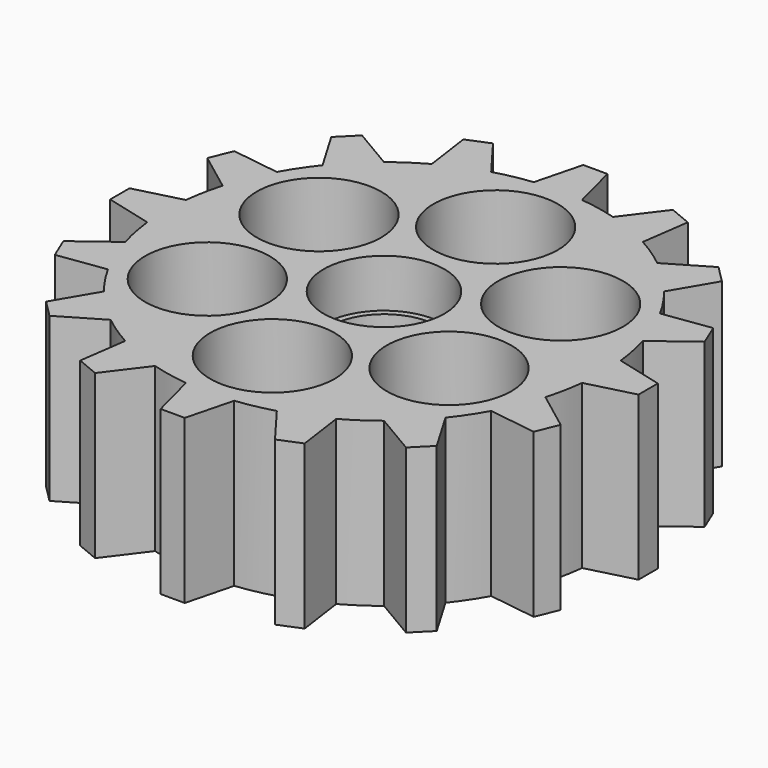
from build123d import *

# Parameters (mm, degrees)
F0_R     = 5
F1_DEPTH = 6.75
F0_R_2   = 4.5
F2_DEPTH = 2.75
F3_R     = 5.154476
F4_DEPTH = 13.501


with BuildPart() as f1:
    # F0 (on Top) → F1 (new body, symmetric)
    with BuildSketch(Plane.XY):
        with BuildLine():
            Line((-21.880162, -1), (-18.007179, -2))
            ThreePointArc((-18.007179, -2), (-17.769775, -3.534628), (-17.401831, -5.04329))
            Line((-17.401831, -5.04329), (-20.597318, -7.449296))
            Line((-20.597318, -7.449296), (-19.831951, -9.297055))
            Line((-19.831951, -9.297055), (-15.871097, -8.738808))
            ThreePointArc((-15.871097, -8.738808), (-15.064488, -10.065769), (-14.147212, -11.318785))
            Line((-14.147212, -11.318785), (-16.178718, -14.764504))
            Line((-16.178718, -14.764504), (-14.764504, -16.178718))
            Line((-14.764504, -16.178718), (-11.318785, -14.147212))
            ThreePointArc((-11.318785, -14.147212), (-10.065769, -15.064488), (-8.738808, -15.871097))
            Line((-8.738808, -15.871097), (-9.297055, -19.831951))
            Line((-9.297055, -19.831951), (-7.449296, -20.597318))
            Line((-7.449296, -20.597318), (-5.04329, -17.401831))
            ThreePointArc((-5.04329, -17.401831), (-3.534628, -17.769775), (-2, -18.007179))
            Line((-2, -18.007179), (-1, -21.880162))
            Line((-1, -21.880162), (1, -21.880162))
            Line((1, -21.880162), (2, -18.007179))
            ThreePointArc((2, -18.007179), (3.534628, -17.769775), (5.04329, -17.401831))
            Line((5.04329, -17.401831), (7.449296, -20.597318))
            Line((7.449296, -20.597318), (9.297055, -19.831951))
            Line((9.297055, -19.831951), (8.738808, -15.871097))
            ThreePointArc((8.738808, -15.871097), (10.065769, -15.064488), (11.318785, -14.147212))
            Line((11.318785, -14.147212), (14.764504, -16.178718))
            Line((14.764504, -16.178718), (16.178718, -14.764504))
            Line((16.178718, -14.764504), (14.147212, -11.318785))
            ThreePointArc((14.147212, -11.318785), (15.064488, -10.065769), (15.871097, -8.738808))
            Line((15.871097, -8.738808), (19.831951, -9.297055))
            Line((19.831951, -9.297055), (20.597318, -7.449296))
            Line((20.597318, -7.449296), (17.401831, -5.04329))
            ThreePointArc((17.401831, -5.04329), (17.769775, -3.534628), (18.007179, -2))
            Line((18.007179, -2), (21.880162, -1))
            Line((21.880162, -1), (21.880162, 1))
            Line((21.880162, 1), (18.007179, 2))
            ThreePointArc((18.007179, 2), (17.769775, 3.534628), (17.401831, 5.04329))
            Line((17.401831, 5.04329), (20.597318, 7.449296))
            Line((20.597318, 7.449296), (19.831951, 9.297055))
            Line((19.831951, 9.297055), (15.871097, 8.738808))
            ThreePointArc((15.871097, 8.738808), (15.064488, 10.065769), (14.147212, 11.318785))
            Line((14.147212, 11.318785), (16.178718, 14.764504))
            Line((16.178718, 14.764504), (14.764504, 16.178718))
            Line((14.764504, 16.178718), (11.318785, 14.147212))
            ThreePointArc((11.318785, 14.147212), (10.065769, 15.064488), (8.738808, 15.871097))
            Line((8.738808, 15.871097), (9.297055, 19.831951))
            Line((9.297055, 19.831951), (7.449296, 20.597318))
            Line((7.449296, 20.597318), (5.04329, 17.401831))
            ThreePointArc((5.04329, 17.401831), (3.534628, 17.769775), (2, 18.007179))
            Line((2, 18.007179), (1, 21.880162))
            Line((1, 21.880162), (-1, 21.880162))
            Line((-1, 21.880162), (-2, 18.007179))
            ThreePointArc((-2, 18.007179), (-3.534628, 17.769775), (-5.04329, 17.401831))
            Line((-5.04329, 17.401831), (-7.449296, 20.597318))
            Line((-7.449296, 20.597318), (-9.297055, 19.831951))
            Line((-9.297055, 19.831951), (-8.738808, 15.871097))
            ThreePointArc((-8.738808, 15.871097), (-10.065769, 15.064488), (-11.318785, 14.147212))
            Line((-11.318785, 14.147212), (-14.764504, 16.178718))
            Line((-14.764504, 16.178718), (-16.178718, 14.764504))
            Line((-16.178718, 14.764504), (-14.147212, 11.318785))
            ThreePointArc((-14.147212, 11.318785), (-15.064488, 10.065769), (-15.871097, 8.738808))
            Line((-15.871097, 8.738808), (-19.831951, 9.297055))
            Line((-19.831951, 9.297055), (-20.597318, 7.449296))
            Line((-20.597318, 7.449296), (-17.401831, 5.04329))
            ThreePointArc((-17.401831, 5.04329), (-17.769775, 3.534628), (-18.007179, 2))
            Line((-18.007179, 2), (-21.880162, 1))
            Line((-21.880162, 1), (-21.880162, -1))
        make_face()
        Circle(F0_R, mode=Mode.SUBTRACT)
    extrude(amount=F1_DEPTH, both=True)

    # F0 (on Top) → F2 (join, symmetric)
    with BuildSketch(Plane.XY):
        Circle(F0_R)
        Circle(F0_R_2, mode=Mode.SUBTRACT)
    extrude(amount=F2_DEPTH, both=True)

    # F3 (on face) → F4 (cut, through all)
    with BuildSketch(Plane.XY.offset(6.75)):
        with Locations((0, 11.558953)):
            Circle(F3_R)
        with Locations((-10.010347, 5.779476)):
            Circle(F3_R)
        with Locations((-10.010347, -5.779476)):
            Circle(F3_R)
        with Locations((0, -11.558953)):
            Circle(F3_R)
        with Locations((10.010347, -5.779476)):
            Circle(F3_R)
        with Locations((10.010347, 5.779476)):
            Circle(F3_R)
    extrude(amount=-F4_DEPTH, mode=Mode.SUBTRACT)


solid = f1.part
